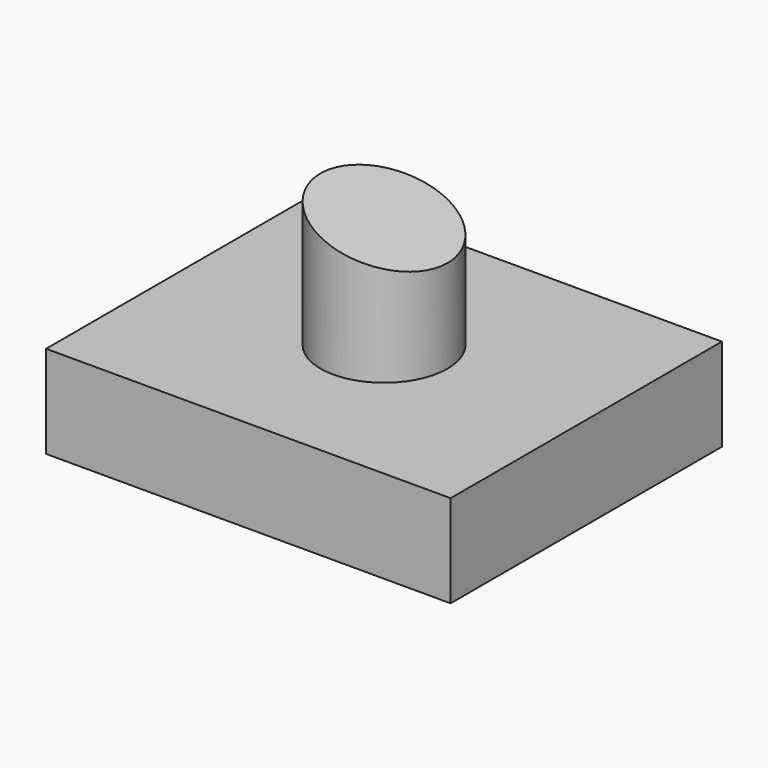
from build123d import *

# Parameters (mm, degrees)
F0_W     = 110.979826
F0_H     = 93.036972
F1_DEPTH = 25.4
F2_R     = 17.443643
F3_DEPTH = 50.8
F6_DEPTH = 58.928


with BuildPart() as f1:
    # F0 (on Top) → F1 (new body)
    with BuildSketch(Plane.XY):
        Rectangle(F0_W, F0_H)
    extrude(amount=F1_DEPTH)

    # F2 (on face) → F3 (join)
    with BuildSketch(Plane.XY.offset(25.4)):
        Circle(F2_R)
    extrude(amount=F3_DEPTH)

    # F5 (on offset) → F6 (cut)
    with BuildSketch(Plane.XZ.offset(25.4)):
        Polygon((-31.497903, 79.689242), (-29.677777, 64.824864), (34.026667, 46.016887), (34.026667, 79.689242), align=None)
    extrude(amount=-F6_DEPTH, mode=Mode.SUBTRACT)


solid = f1.part
